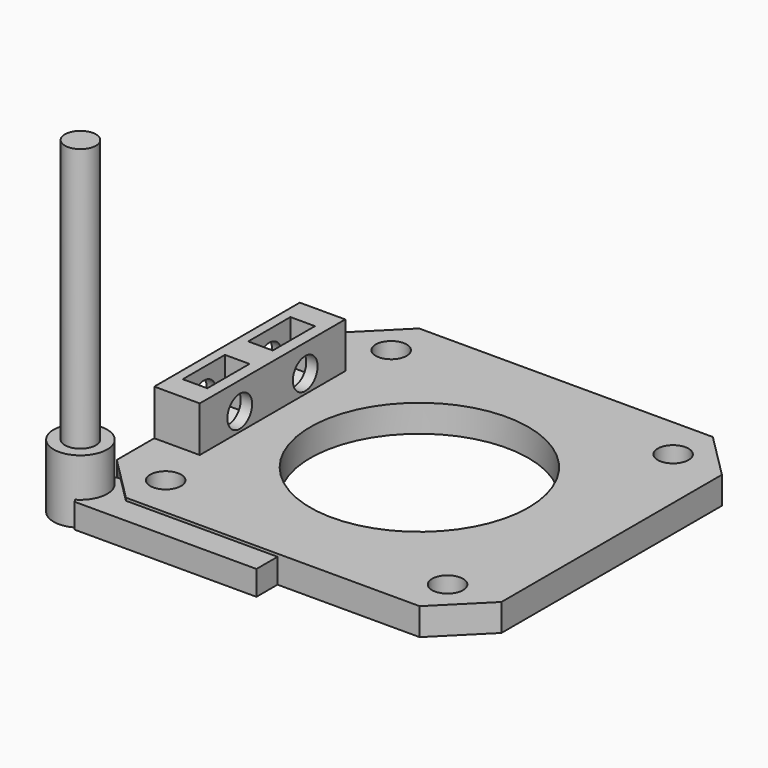
from build123d import *

# Parameters (mm, degrees)
CYLINDER_R               = 2.95
CYLINDER_DEPTH           = 7
CYLINDER001_R            = 1.7
CYLINDER001_DEPTH        = 30
PAD002_DEPTH             = 2.7
CLONE242_PLACEMENT_ANGLE = 180
CYLINDER1023_R           = 12
CYLINDER1023_DEPTH       = 10
CLONE243_PLACEMENT_ANGLE = 180
CLONE244_PLACEMENT_ANGLE = 180
CLONE245_PITCH_ANGLE     = -90
CLONE245_PLACEMENT_ANGLE = -180
CLONE248_PITCH_ANGLE     = -90
CLONE246_PITCH_ANGLE     = -90
CLONE246_PLACEMENT_ANGLE = -180
CLONE247_PITCH_ANGLE     = -90
CLONE241_PLACEMENT_ANGLE = 180
BOX253_W                 = 5
BOX253_H                 = 20
BOX253_DEPTH             = 5
PAD033_DEPTH             = 3


with BuildPart() as m3bolthead:
    # Cylinder → Cylinder (new body)
    with BuildSketch(Plane.XY):
        Circle(CYLINDER_R)
    extrude(amount=CYLINDER_DEPTH)


with BuildPart() as m3bolt:
    # Cylinder001 → Cylinder001 (new body)
    with BuildSketch(Plane.XY.offset(6)):
        Circle(CYLINDER001_R)
    extrude(amount=CYLINDER001_DEPTH)

    # Fusion: union M3BoltHead
    add(m3bolthead.part)


with BuildPart() as m3nuthousing:
    # Sketch003 → Pad002 (new body)
    with BuildSketch(Plane.XY):
        Polygon((0, 0), (1.674316, 2.9), (21.674316, 2.9), (21.674316, -2.9), (1.674316, -2.9), align=None)
    extrude(amount=PAD002_DEPTH)


with BuildPart() as clone_of_m3bolt078:
    # Clone242 base: copy of M3Bolt
    add(m3bolt.part)


with BuildPart() as clone_of_m3bolt078_1:
    # Clone242 placement: moved
    add(clone_of_m3bolt078.part.moved(Location((36.65, 4.65, 34))).rotate(Axis((36.65, 4.65, 34), (0, 1, 0)), CLONE242_PLACEMENT_ANGLE))


with BuildPart() as cylinder1059:
    # Cylinder1023 → Cylinder1023 (new body)
    with BuildSketch(Plane(origin=(21.15, 20.15, -2), x_dir=(1, 0, 0), z_dir=(0, 0, 1))):
        Circle(CYLINDER1023_R)
    extrude(amount=CYLINDER1023_DEPTH)


with BuildPart() as clone_of_m3bolt079:
    # Clone243 base: copy of M3Bolt
    add(m3bolt.part)


with BuildPart() as clone_of_m3bolt079_1:
    # Clone243 placement: moved
    add(clone_of_m3bolt079.part.moved(Location((5.65, 35.65, 34))).rotate(Axis((5.65, 35.65, 34), (0, 1, 0)), CLONE243_PLACEMENT_ANGLE))


with BuildPart() as clone_of_m3bolt080:
    # Clone244 base: copy of M3Bolt
    add(m3bolt.part)


with BuildPart() as clone_of_m3bolt080_1:
    # Clone244 placement: moved
    add(clone_of_m3bolt080.part.moved(Location((36.65, 35.65, 34))).rotate(Axis((36.65, 35.65, 34), (0, 1, 0)), CLONE244_PLACEMENT_ANGLE))


with BuildPart() as clone_of_m3bolt081:
    # Clone245 base: copy of M3Bolt
    add(m3bolt.part)


with BuildPart() as clone_of_m3bolt081_1:
    # Clone245 pitch: moved
    add(clone_of_m3bolt081.part.rotate(Axis((0, 0, 0), (0, 1, 0)), CLONE245_PITCH_ANGLE))


with BuildPart() as clone_of_m3bolt081_2:
    # Clone245 placement: moved
    add(clone_of_m3bolt081_1.part.moved(Location((-26, 24.65, 5))).rotate(Axis((-26, 24.65, 5), (0, 0, 1)), CLONE245_PLACEMENT_ANGLE))


with BuildPart() as clone_of_m3nuthousing023:
    # Clone248 base: copy of M3NutHousing
    add(m3nuthousing.part)


with BuildPart() as clone_of_m3nuthousing023_1:
    # Clone248 pitch: moved
    add(clone_of_m3nuthousing023.part.rotate(Axis((0, 0, 0), (0, 1, 0)), CLONE248_PITCH_ANGLE))


with BuildPart() as clone_of_m3nuthousing023_2:
    # Clone248 placement: moved
    add(clone_of_m3nuthousing023_1.part.moved(Location((3.75, 15.65, 1.5))))


with BuildPart() as clone_of_m3bolt082:
    # Clone246 base: copy of M3Bolt
    add(m3bolt.part)


with BuildPart() as clone_of_m3bolt082_1:
    # Clone246 pitch: moved
    add(clone_of_m3bolt082.part.rotate(Axis((0, 0, 0), (0, 1, 0)), CLONE246_PITCH_ANGLE))


with BuildPart() as clone_of_m3bolt082_2:
    # Clone246 placement: moved
    add(clone_of_m3bolt082_1.part.moved(Location((-26, 15.65, 5))).rotate(Axis((-26, 15.65, 5), (0, 0, 1)), CLONE246_PLACEMENT_ANGLE))


with BuildPart() as clone_of_m3nuthousing022:
    # Clone247 base: copy of M3NutHousing
    add(m3nuthousing.part)


with BuildPart() as clone_of_m3nuthousing022_1:
    # Clone247 pitch: moved
    add(clone_of_m3nuthousing022.part.rotate(Axis((0, 0, 0), (0, 1, 0)), CLONE247_PITCH_ANGLE))


with BuildPart() as clone_of_m3nuthousing022_2:
    # Clone247 placement: moved
    add(clone_of_m3nuthousing022_1.part.moved(Location((3.75, 24.65, 1.5))))


with BuildPart() as fusion086:
    # Clone241 base: copy of M3Bolt
    add(m3bolt.part)


with BuildPart() as fusion086_1:
    # Clone241 placement: moved
    add(fusion086.part.moved(Location((5.65, 4.65, 34))).rotate(Axis((5.65, 4.65, 34), (0, 1, 0)), CLONE241_PLACEMENT_ANGLE))

    # Fusion086: union Clone of M3Bolt078, Cylinder1059, Clone of M3Bolt079, Clone of M3Bolt080, Clone of M3Bolt081, Clone of M3NutHousing023, Clone of M3Bolt082, Clone of M3NutHousing022
    add(clone_of_m3bolt078_1.part)
    add(cylinder1059.part)
    add(clone_of_m3bolt079_1.part)
    add(clone_of_m3bolt080_1.part)
    add(clone_of_m3bolt081_2.part)
    add(clone_of_m3nuthousing023_2.part)
    add(clone_of_m3bolt082_2.part)
    add(clone_of_m3nuthousing022_2.part)


with BuildPart() as cube017:
    # Box253 → Box253 (new body)
    with BuildSketch(Plane(origin=(0, 10.15, 3), x_dir=(1, 0, 0), z_dir=(0, 0, 1))):
        with Locations((2.5, 10)):
            Rectangle(BOX253_W, BOX253_H)
    extrude(amount=BOX253_DEPTH)


with BuildPart() as obj1:
    # Sketch045 → Pad033 (new body)
    with BuildSketch(Plane.XY):
        Polygon((42.3, 5), (42.3, 35.3), (37.3, 40.3), (5, 40.3), (0, 35.3), (0, 5), (5, 0), (37.3, 0), align=None)
    extrude(amount=PAD033_DEPTH)

    # Fusion085: union Cube017
    add(cube017.part)

    # Cut073: cut Fusion086
    add(fusion086_1.part, mode=Mode.SUBTRACT)


solid = Compound([m3bolt.part, m3nuthousing.part, obj1.part])
